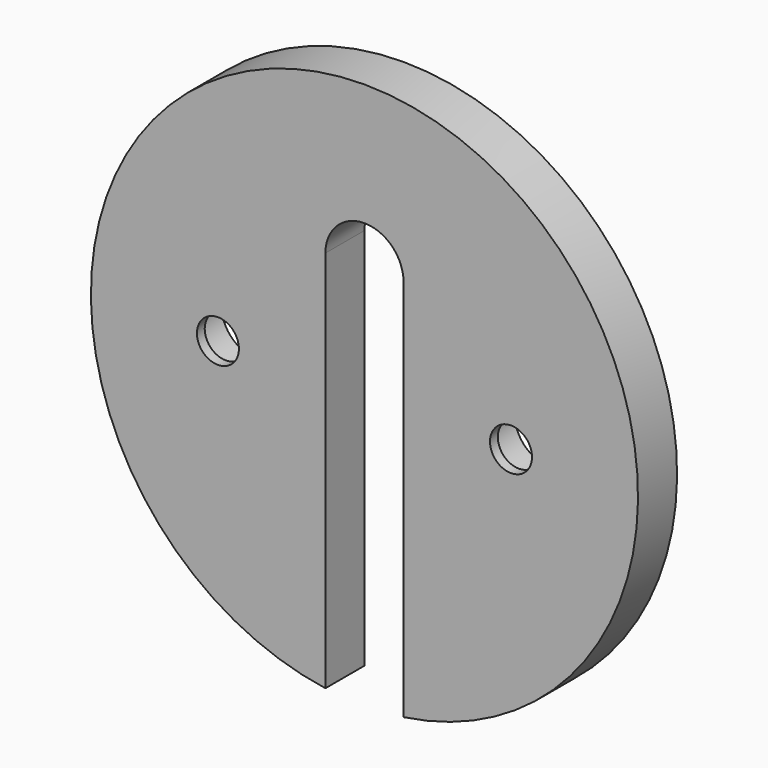
from build123d import *

# Parameters (mm, degrees)
F0_R     = 28
F1_DEPTH = 5
F3_DEPTH = 35
F4_R     = 2.15
F5_DEPTH = 25
F6_R     = 3.65
F7_DEPTH = 4


with BuildPart() as f1:
    # F0 (on Front) → F1 (new body)
    with BuildSketch(Plane.XZ):
        Circle(F0_R)
    extrude(amount=F1_DEPTH)

    # F2 (on face) → F3 (cut)
    with BuildSketch(Plane(origin=(0, 0, 0), x_dir=(-1, 0, 0), z_dir=(0, 1, 0))):
        with BuildLine():
            ThreePointArc((4, 11.5), (0, 15.5), (-4, 11.5))
            Line((-4, 11.5), (-4, -27.712813))
            ThreePointArc((-4, -27.712813), (0, -28), (4, -27.712813))
            Line((4, -27.712813), (4, 11.5))
        make_face()
    extrude(amount=-F3_DEPTH, mode=Mode.SUBTRACT)

    # F4 (on face) → F5 (cut)
    with BuildSketch(Plane(origin=(0, 0, 0), x_dir=(-1, 0, 0), z_dir=(0, 1, 0))):
        with Locations((-15, 0)):
            Circle(F4_R)
        with Locations((15, 0)):
            Circle(F4_R)
    extrude(amount=-F5_DEPTH, mode=Mode.SUBTRACT)

    # F6 (on face) → F7 (cut)
    with BuildSketch(Plane(origin=(0, 0, 0), x_dir=(-1, 0, 0), z_dir=(0, 1, 0))):
        with Locations((-15, 0)):
            Circle(F6_R)
        with Locations((15, 0)):
            Circle(F6_R)
    extrude(amount=-F7_DEPTH, mode=Mode.SUBTRACT)


solid = f1.part
